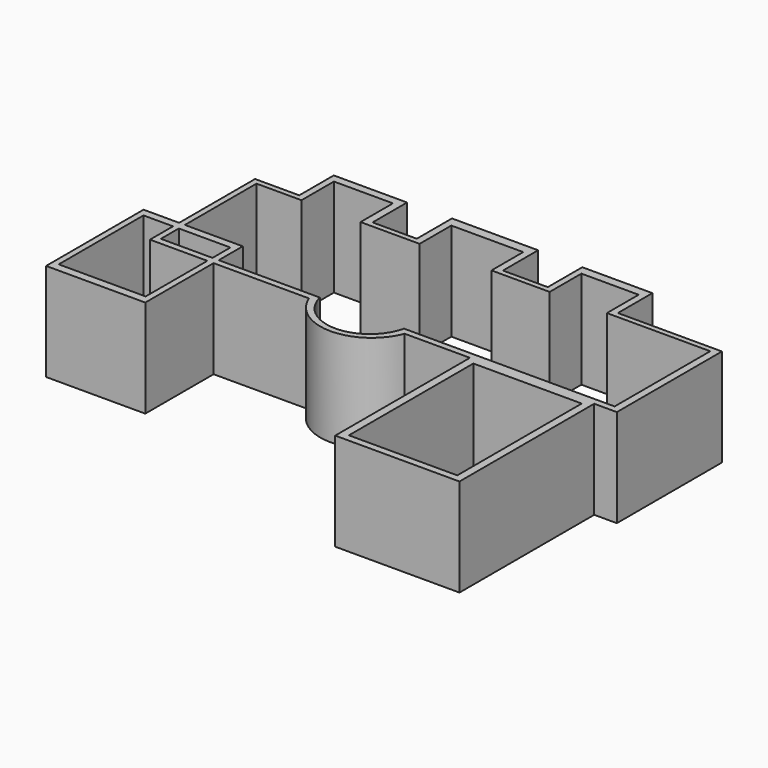
from build123d import *

# Parameters (mm, degrees)
F0_W     = 1.4990121126
F0_H     = 1.9831014797
F0_W_2   = 1.6156211495
F0_H_2   = 1.6615597997
F0_W_3   = 28.149546124
F0_H_3   = 40.3955862857
F1_DEPTH = 25.4


with BuildPart() as f1:
    # F0 (on Top) → F1 (new body)
    with BuildSketch(Plane.XY):
        Polygon((-11.7408363149, 45.5303452909), (-11.7408363149, 34.1073982418), (-9.8901251331, 34.1073982418), (-9.8901251331, 43.0053770542), (8.778876625, 43.0053770542), (8.778876625, 34.1073982418), (10.634101578, 34.1073982418), (10.634101578, 45.5303452909), align=None)
        Polygon((-42.2627404332, 45.3080944717), (-42.2627404332, 34.1073982418), (-40.5606254935, 34.1073982418), (-40.5606254935, 43.2276241481), (-25.2253748477, 43.2276241481), (-25.2253748477, 34.1073982418), (-23.2215542346, 34.1073982418), (-23.2215542346, 45.3080944717), align=None)
        Polygon((-23.2215542346, 34.1073982418), (-25.2253748477, 34.1073982418), (-25.2253748477, 32.7079482377), (-9.8901251331, 32.7079482377), (-9.8901251331, 34.1073982418), (-11.7408363149, 34.1073982418), align=None)
        Polygon((-42.2627404332, 34.1073982418), (-53.743455559, 34.1073982418), (-53.743455559, 9.4658602029), (-52.2444434464, 9.4658602029), (-52.2444434464, 32.7079482377), (-40.5606254935, 32.7079482377), (-40.5606254935, 34.1073982418), align=None)
        Polygon((-53.743455559, 7.4827587232), (-53.743455559, 9.4658602029), (-62.9840344191, 9.4658602029), (-62.9840344191, -22.1761129797), (-37.2224263847, -22.1761129797), (-37.2224263847, 0), (-38.8380475342, 0), (-38.8380475342, -20.0356338173), (-61.4172406495, -20.0356338173), (-61.4172406495, 7.4827587232), align=None)
        Polygon((-52.2444434464, 7.4827587232), (-53.743455559, 7.4827587232), (-53.743455559, 0), (-38.8380475342, 0), (-38.8380475342, 1.6615597997), (-52.2444434464, 1.6615597997), align=None)
        Polygon((-37.2224263847, 9.4658602029), (-52.2444434464, 9.4658602029), (-52.2444434464, 7.4827587232), (-38.8380475342, 7.4827587232), (-38.8380475342, 1.6615597997), (-37.2224263847, 1.6615597997), align=None)
        with Locations((-52.9939495027, 8.4743094631)):
            Rectangle(F0_W, F0_H)
        with Locations((-38.0302369595, 0.8307798998)):
            Rectangle(F0_W_2, F0_H_2)
        with BuildLine():
            Line((-10.9551865608, 1.6615597997), (-37.2224263847, 1.6615597997))
            Line((-37.2224263847, 1.6615597997), (-37.2224263847, 0))
            Line((-37.2224263847, 0), (-12.4503001571, 0))
            Line((-12.4503001571, 0), (-10.4229850138, 0))
            ThreePointArc((-10.4229850138, 0), (-10.7213890086, 0.8204331014), (-10.9551865608, 1.6615597997))
        make_face()
        with BuildLine():
            Line((31.4435763285, 1.6615597997), (10.9108546749, 1.6615597997))
            ThreePointArc((10.9108546749, 1.6615597997), (10.6770571227, 0.8204331014), (10.378653128, 0))
            Line((10.378653128, 0), (12.4059682712, 0))
            Line((12.4059682712, 0), (29.3507482857, 0))
            Line((29.3507482857, 0), (31.4435763285, 0))
            Line((31.4435763285, 0), (31.4435763285, 1.6615597997))
        make_face()
        with BuildLine():
            Line((-10.4229850138, 0), (-12.4503001571, 0))
            ThreePointArc((-12.4503001571, 0), (-0.0221659429, -8.5303409081), (12.4059682712, 0))
            Line((12.4059682712, 0), (10.378653128, 0))
            ThreePointArc((10.378653128, 0), (-0.0221659429, -6.9872415007), (-10.4229850138, 0))
        make_face()
        Polygon((31.4435763285, 0), (29.3507482857, 0), (29.3507482857, -43.7374562025), (61.623737216, -43.7374562025), (61.623737216, 0), align=None)
        with Locations((45.5183493905, -21.7114321422)):
            Rectangle(F0_W_3, F0_H_3, mode=Mode.SUBTRACT)
        Polygon((65.5907168984, 1.6615597997), (31.4435763285, 1.6615597997), (31.4435763285, 0), (61.623737216, 0), (67.5041079521, 0), (67.5041079521, 34.1073982418), (40.482412558, 34.1073982418), (38.7573502958, 34.1073982418), (38.7573502958, 32.7079482377), (65.5907168984, 32.7079482377), align=None)
        Polygon((22.2812830471, 34.1073982418), (23.8918736577, 34.1073982418), (23.8918736577, 43.0053770542), (38.7573502958, 43.0053770542), (38.7573502958, 34.1073982418), (40.482412558, 34.1073982418), (40.482412558, 45.3080944717), (22.2812830471, 45.3080944717), align=None)
        Polygon((8.778876625, 34.1073982418), (8.778876625, 32.7079482377), (23.8918736577, 32.7079482377), (23.8918736577, 34.1073982418), (22.2812830471, 34.1073982418), (10.634101578, 34.1073982418), align=None)
    extrude(amount=F1_DEPTH)


solid = f1.part
